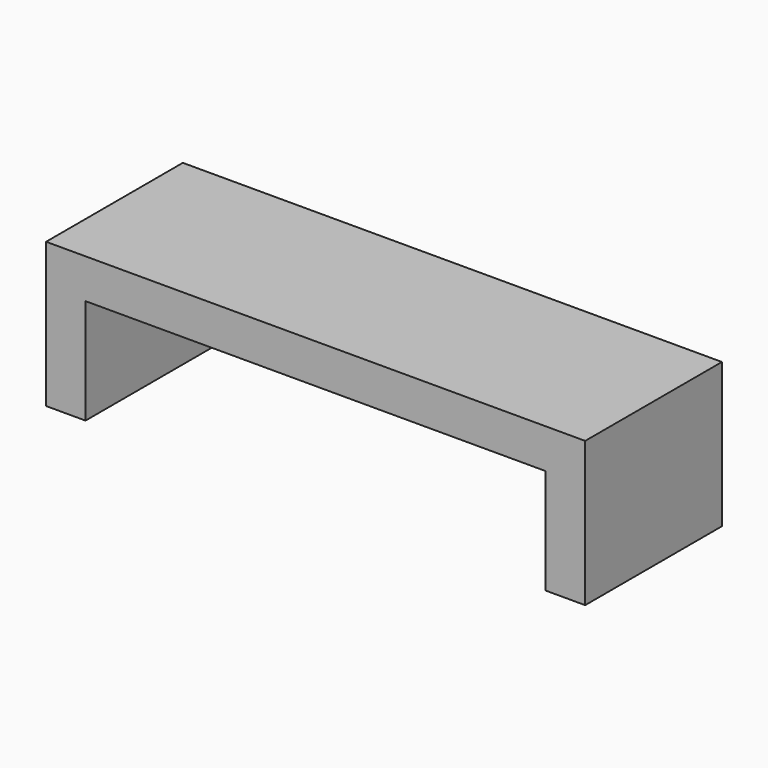
from build123d import *

# Parameters (mm, degrees)
F1_DEPTH = 82.55
F0_W     = 38.1
F0_H     = 101.6
F2_DEPTH = 82.55


with BuildPart() as f1:
    # F0 (on Front) → F1 (new body, symmetric)
    with BuildSketch(Plane.XZ):
        Polygon((260.35, 101.6), (260.35, 139.7), (-260.35, 139.7), (-260.35, 101.6), (-222.25, 101.6), (222.25, 101.6), align=None)
    extrude(amount=F1_DEPTH, both=True)

    # F0 (on Front) → F2 (join, symmetric)
    with BuildSketch(Plane.XZ):
        with Locations((-241.3, 50.8)):
            Rectangle(F0_W, F0_H)
        with Locations((241.3, 50.8)):
            Rectangle(F0_W, F0_H)
    extrude(amount=F2_DEPTH, both=True)


solid = f1.part
